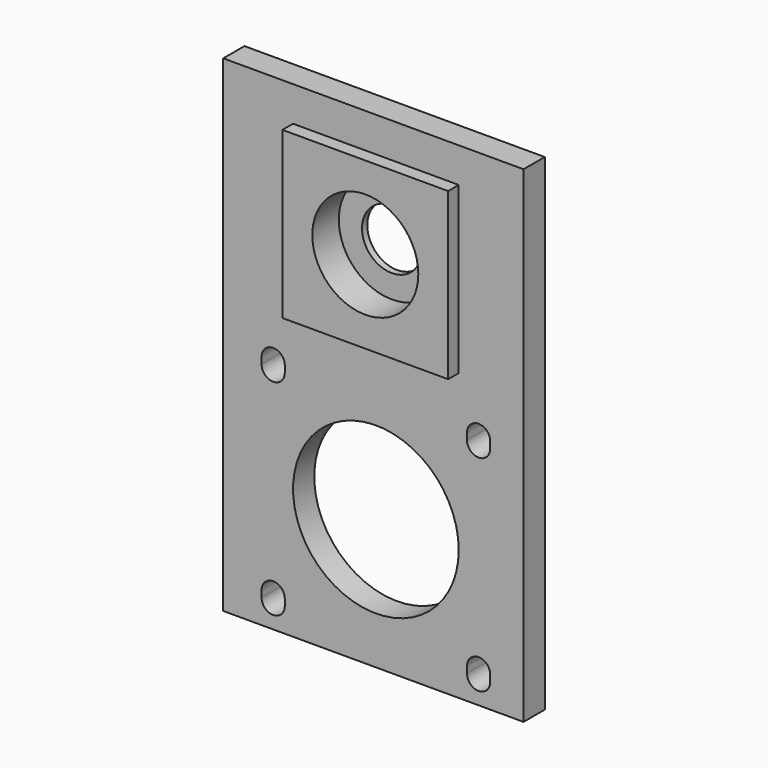
from build123d import *

# Parameters (mm, degrees)
F0_W     = 45.317253
F0_H     = 73.422673
F0_R     = 12.5
F0_W_2   = 25
F0_H_2   = 25
F1_DEPTH = 4
F0_R_2   = 8
F2_DEPTH = 6
F0_R_3   = 4.5
F3_DEPTH = 1


with BuildPart() as f1:
    # F0 (on Front) → F1 (new body)
    with BuildSketch(Plane.XZ):
        with Locations((-0.377299, -18.946934)):
            Rectangle(F0_W, F0_H)
        with BuildLine():
            ThreePointArc((-13.75, -52), (-15.5, -53.75), (-17.25, -52))
            Line((-17.25, -52), (-17.25, -51))
            ThreePointArc((-17.25, -51), (-15.5, -49.25), (-13.75, -51))
            Line((-13.75, -51), (-13.75, -52))
        make_face(mode=Mode.SUBTRACT)
        with BuildLine():
            ThreePointArc((-17.25, -20), (-15.5, -18.25), (-13.75, -20))
            Line((-13.75, -20), (-13.75, -21))
            ThreePointArc((-13.75, -21), (-15.5, -22.75), (-17.25, -21))
            Line((-17.25, -21), (-17.25, -20))
        make_face(mode=Mode.SUBTRACT)
        with BuildLine():
            Line((17.25, -51), (17.25, -52))
            ThreePointArc((17.25, -52), (15.5, -53.75), (13.75, -52))
            Line((13.75, -52), (13.75, -51))
            ThreePointArc((13.75, -51), (15.5, -49.25), (17.25, -51))
        make_face(mode=Mode.SUBTRACT)
        with Locations((0, -36)):
            Circle(F0_R, mode=Mode.SUBTRACT)
        with BuildLine():
            Line((13.75, -21), (13.75, -20))
            ThreePointArc((13.75, -20), (15.5, -18.25), (17.25, -20))
            Line((17.25, -20), (17.25, -21))
            ThreePointArc((17.25, -21), (15.5, -22.75), (13.75, -21))
        make_face(mode=Mode.SUBTRACT)
        Rectangle(F0_W_2, F0_H_2, mode=Mode.SUBTRACT)
    extrude(amount=F1_DEPTH)

    # F0 (on Front) → F2 (join)
    with BuildSketch(Plane.XZ):
        Rectangle(F0_W_2, F0_H_2)
        Circle(F0_R_2, mode=Mode.SUBTRACT)
    extrude(amount=F2_DEPTH)

    # F0 (on Front) → F3 (join)
    with BuildSketch(Plane.XZ):
        Circle(F0_R_2)
        Circle(F0_R_3, mode=Mode.SUBTRACT)
    extrude(amount=F3_DEPTH)


solid = f1.part
